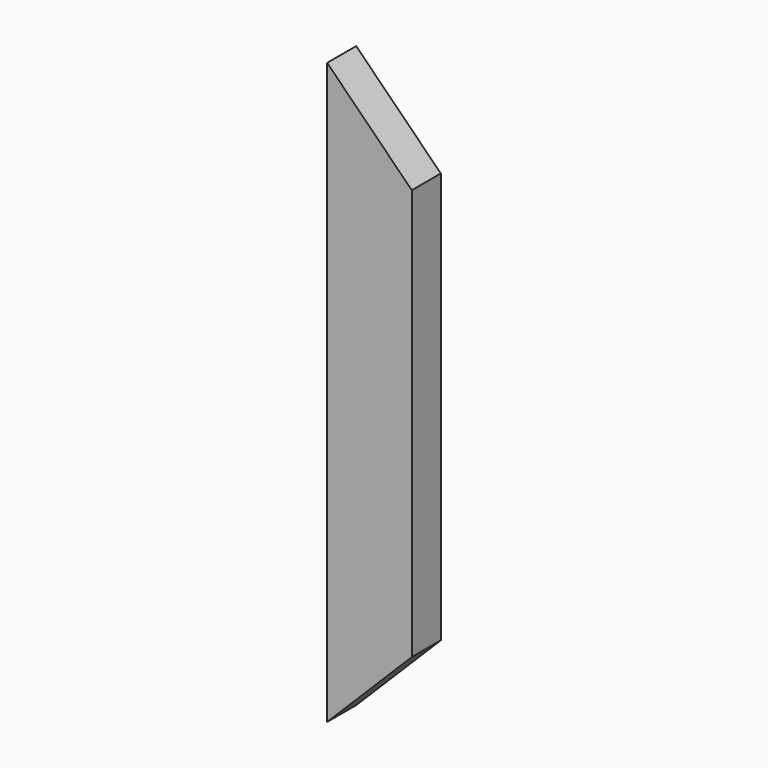
from build123d import *

# Parameters (mm, degrees)
F0_W     = 88.9
F0_H     = 38.1
F1_DEPTH = 304.8
F3_DEPTH = 38.101


with BuildPart() as f1:
    # F0 (on Top) → F1 (new body, symmetric)
    with BuildSketch(Plane.XY):
        Rectangle(F0_W, F0_H)
    extrude(amount=F1_DEPTH, both=True)

    # F2 (on face) → F3 (cut, through all)
    with BuildSketch(Plane(origin=(0, 19.05, 0), x_dir=(-1, 0, 0), z_dir=(0, 1, 0))):
        Polygon((-44.45, 215.9), (44.45, 304.8), (-44.45, 304.8), align=None)
        Polygon((-44.45, -304.8), (44.45, -304.8), (-44.45, -215.9), align=None)
    extrude(amount=-F3_DEPTH, mode=Mode.SUBTRACT)


solid = f1.part
